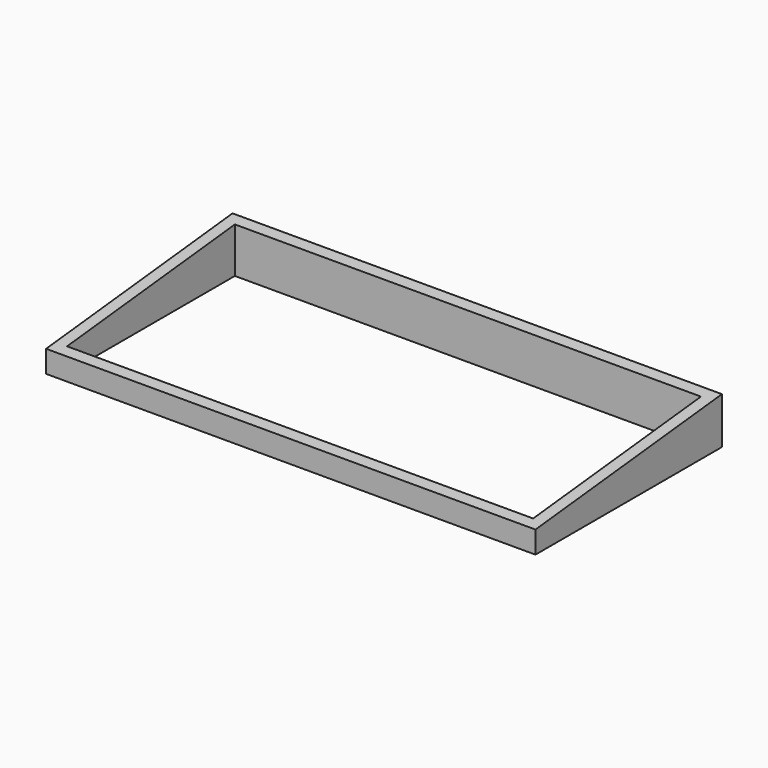
from build123d import *

# Parameters (mm, degrees)
F0_W     = 800
F0_H     = 400
F1_DEPTH = 40
F3_DEPTH = 800.001
F5_DEPTH = 20
F8_W     = 800
F8_H     = 360
F9_DEPTH = 100.001


with BuildPart() as f1:
    # F0 (on Top) → F1 (new body, symmetric)
    with BuildSketch(Plane.XY):
        Rectangle(F0_W, F0_H)
    extrude(amount=F1_DEPTH, both=True)

    # F2 (on face) → F3 (cut, through all)
    with BuildSketch(Plane.YZ.offset(400)):
        Polygon((-180, -20), (-180, -20.0497749922), (-179.5264225832, -20), align=None)
        Polygon((-200, -2.0416941063), (200, 40), (-200, 40), align=None)
    extrude(amount=-F3_DEPTH, mode=Mode.SUBTRACT)

    # F4 (on face) → F5 (join)
    with BuildSketch(Plane.YZ.offset(400)):
        Polygon((200, 40), (-200, -2.0416941063), (-200, -40), (200, -40), align=None)
        Polygon((-179.5264225832, -20), (-180, -20.0497749922), (-180, -20), align=None, mode=Mode.SUBTRACT)
        Polygon((-180, -20), (-180, -20.0497749922), (-179.5264225832, -20), align=None)
    extrude(amount=F5_DEPTH)

    # F6: F1 across plane


with BuildPart() as f1_1:
    add(f1.part)
    add(f1.part.mirror(Plane.YZ))

    # F8 (on offset) → F9 (cut, through all)
    with BuildSketch(Plane(origin=(0, 0, -60), x_dir=(1, 0, 0), z_dir=(0, 0, -1))):
        Rectangle(F8_W, F8_H)
    extrude(amount=-F9_DEPTH, mode=Mode.SUBTRACT)


solid = f1_1.part
